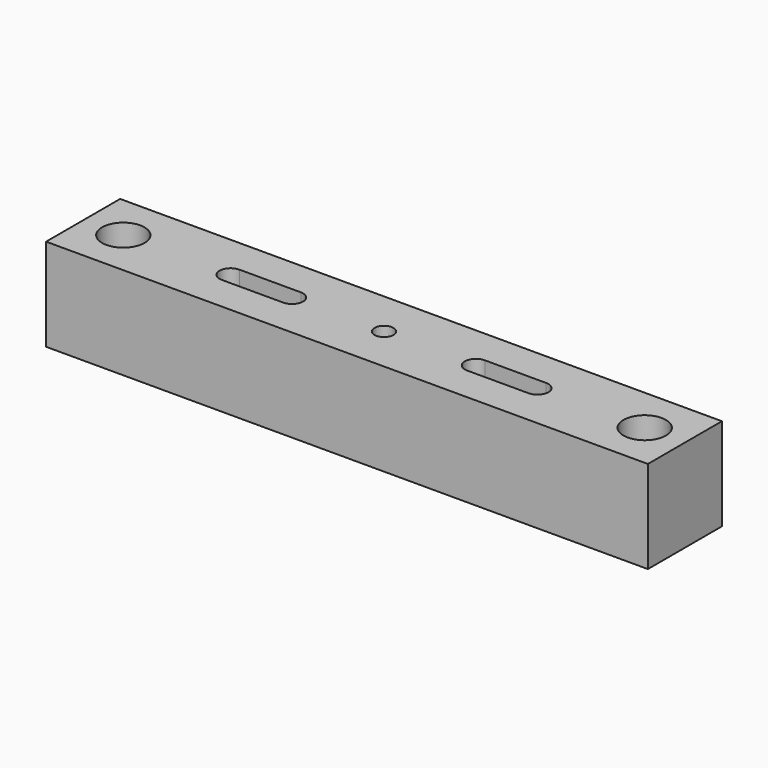
from build123d import *

# Parameters (mm, degrees)
F0_W     = 248.539
F0_H     = 38.227
F1_DEPTH = 38.227
F2_R     = 8.763
F2_R_2   = 3.937
F3_DEPTH = 19.05
F5_DEPTH = 38.228


with BuildPart() as f1:
    # F0 (on Top) → F1 (new body)
    with BuildSketch(Plane.XY):
        Rectangle(F0_W, F0_H)
    extrude(amount=F1_DEPTH)

    # F2 (on face) → F3 (cut)
    with BuildSketch(Plane.XY.offset(38.227)):
        with Locations((-107.6706, 0)):
            Circle(F2_R)
        Circle(F2_R_2)
        with Locations((107.6706, 0)):
            Circle(F2_R)
    extrude(amount=-F3_DEPTH, mode=Mode.SUBTRACT)

    # F4 (on face) → F5 (cut, through all)
    with BuildSketch(Plane.XY.offset(38.227)):
        with BuildLine():
            Line((-37.973, 4.572), (-63.3476, 4.572))
            ThreePointArc((-63.3476, 4.572), (-67.9196, 0), (-63.3476, -4.572))
            Line((-63.3476, -4.572), (-37.973, -4.572))
            ThreePointArc((-37.973, -4.572), (-33.401, 0), (-37.973, 4.572))
        make_face()
        with BuildLine():
            ThreePointArc((37.973, 4.572), (33.401, 0), (37.973, -4.572))
            Line((37.973, -4.572), (63.3476, -4.572))
            ThreePointArc((63.3476, -4.572), (67.9196, 0), (63.3476, 4.572))
            Line((63.3476, 4.572), (37.973, 4.572))
        make_face()
    extrude(amount=-F5_DEPTH, mode=Mode.SUBTRACT)


solid = f1.part
